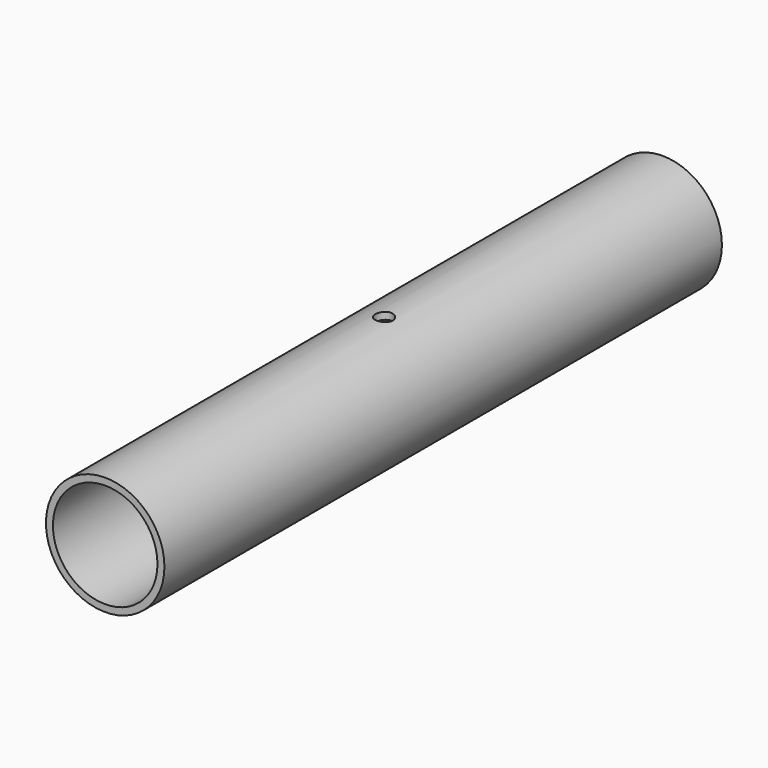
from build123d import *

# Parameters (mm, degrees)
F0_R          = 17
F0_R_2        = 15
F1_DEPTH      = 200
F2_R          = 2.5
F3_DEPTH      = 25
F3_DEPTH_BACK = 25


with BuildPart() as f1:
    # F0 (on Front) → F1 (new body)
    with BuildSketch(Plane.XZ):
        Circle(F0_R)
        Circle(F0_R_2, mode=Mode.SUBTRACT)
    extrude(amount=F1_DEPTH)

    # F2 (on Top) → F3 (cut, two sides)
    with BuildSketch(Plane.XY) as f3_sk:
        with Locations((0, -100)):
            Circle(F2_R)
    extrude(amount=-F3_DEPTH, mode=Mode.SUBTRACT)
    extrude(f3_sk.sketch, amount=F3_DEPTH_BACK, mode=Mode.SUBTRACT)


solid = f1.part
